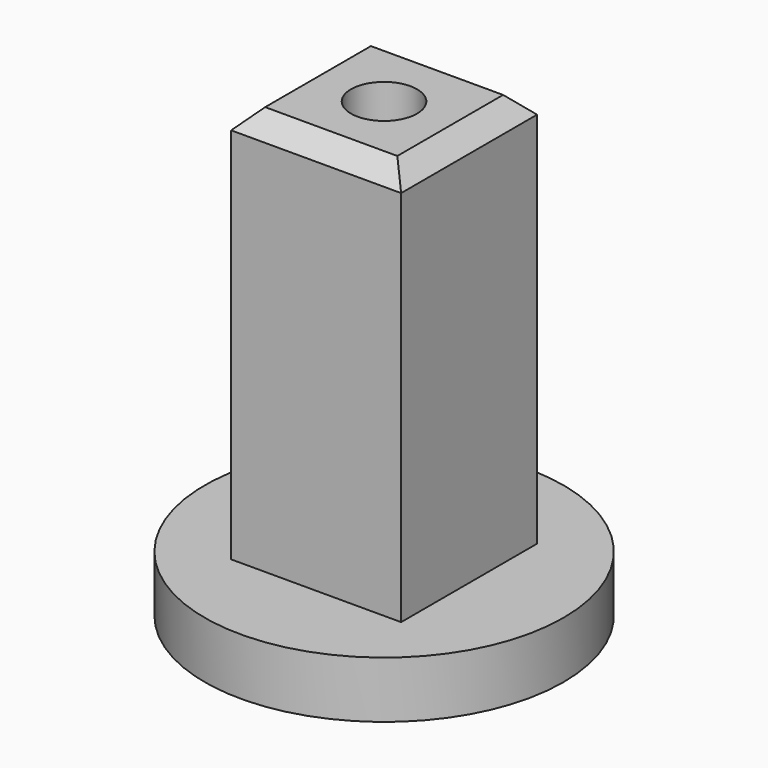
from build123d import *

# Parameters (mm, degrees)
SKETCH_R     = 9.5
PAD_DEPTH    = 3
SKETCH002_W  = 9
SKETCH002_H  = 9
PAD001_DEPTH = 21
CHAMFER_SIZE = 1
SKETCH003_R  = 1.75
POCKET_DEPTH = 21


with BuildPart() as part:
    # Sketch → Pad (new body)
    with BuildSketch(Plane.XY):
        Circle(SKETCH_R)
    extrude(amount=PAD_DEPTH)

    # Sketch002 (on Face3 of Pad) → Pad001 (join)
    with BuildSketch(Plane.XY.offset(3)):
        Rectangle(SKETCH002_W, SKETCH002_H)
    extrude(amount=PAD001_DEPTH)

    # Chamfer
    chamfer_edges = [part.edges().sort_by_distance(p)[0] for p in [
        (0, 4.5, 24),
        (-4.5, 0, 24),
        (0, -4.5, 24),
        (4.5, 0, 24),
    ]]
    chamfer(chamfer_edges, length=CHAMFER_SIZE)

    # Sketch003 (on Face8 of Chamfer) → Pocket (cut)
    with BuildSketch(Plane.XY.offset(24)):
        with Locations((0.020416, -0.031336)):
            Circle(SKETCH003_R)
    extrude(amount=-POCKET_DEPTH, mode=Mode.SUBTRACT)


solid = part.part
